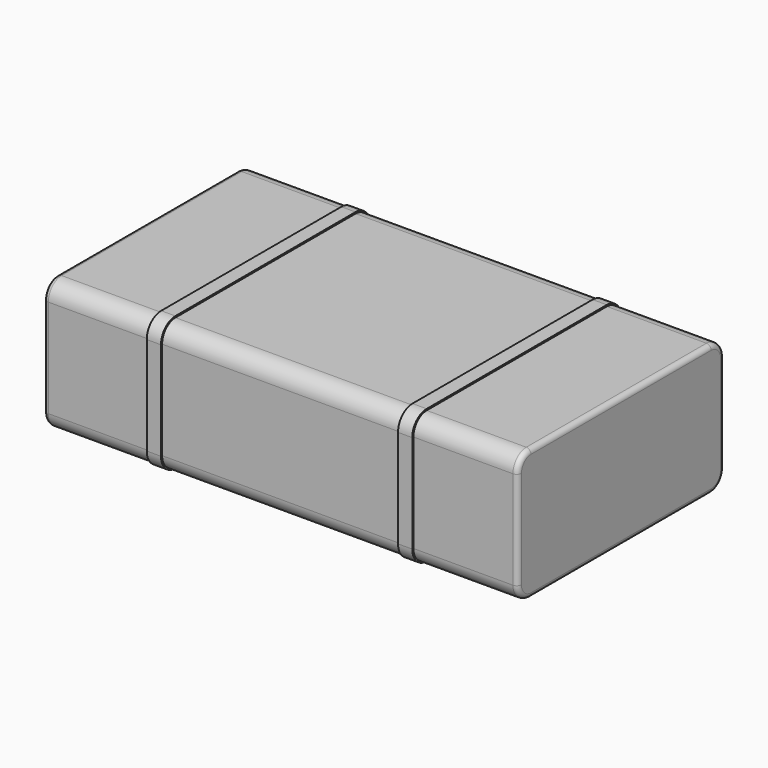
from build123d import *

# Parameters (mm, degrees)
F1_W     = 1000
F1_H     = 545
F2_DEPTH = 277
F3_R     = 35
F4_R     = 10
F7_DEPTH = 30


with BuildPart() as f2:
    # F1 (on offset) → F2 (new body)
    with BuildSketch(Plane.XY.offset(250)):
        Rectangle(F1_W, F1_H)
    extrude(amount=F2_DEPTH)

    # F3
    f3_edges = [f2.edges().sort_by_distance(p)[0] for p in [
        (0, -272.5, 527),
        (0, -272.5, 250),
        (0, 272.5, 527),
        (0, 272.5, 250),
    ]]
    fillet(f3_edges, radius=F3_R)

    # F4
    f4_edges = [f2.edges().sort_by_distance(p)[0] for p in [
        (-500, 0, 527),
        (500, 0, 527),
    ]]
    fillet(f4_edges, radius=F4_R)


with BuildPart() as f7:
    # F6 (on offset) → F7 (new body)
    with BuildSketch(Plane.YZ.offset(250)):
        with BuildLine():
            ThreePointArc((-237.5, 530), (-264.370058, 518.870058), (-275.5, 492))
            Line((-275.5, 492), (-275.5, 285))
            ThreePointArc((-275.5, 285), (-264.370058, 258.129942), (-237.5, 247))
            Line((-237.5, 247), (237.5, 247))
            ThreePointArc((237.5, 247), (264.370058, 258.129942), (275.5, 285))
            Line((275.5, 285), (275.5, 492))
            ThreePointArc((275.5, 492), (264.370058, 518.870058), (237.5, 530))
            Line((237.5, 530), (-237.5, 530))
        make_face()
        with BuildLine():
            Line((-272.5, 285), (-272.5, 492))
            ThreePointArc((-272.5, 492), (-262.248737, 516.748737), (-237.5, 527))
            Line((-237.5, 527), (237.5, 527))
            ThreePointArc((237.5, 527), (262.248737, 516.748737), (272.5, 492))
            Line((272.5, 492), (272.5, 285))
            ThreePointArc((272.5, 285), (262.248737, 260.251263), (237.5, 250))
            Line((237.5, 250), (-237.5, 250))
            ThreePointArc((-237.5, 250), (-262.248737, 260.251263), (-272.5, 285))
        make_face(mode=Mode.SUBTRACT)
    extrude(amount=F7_DEPTH)


with BuildPart() as f8_1:
    # F8: instance of F7
    add(f7.part.mirror(Plane.YZ))


solid = Compound([f2.part, f7.part, f8_1.part])
